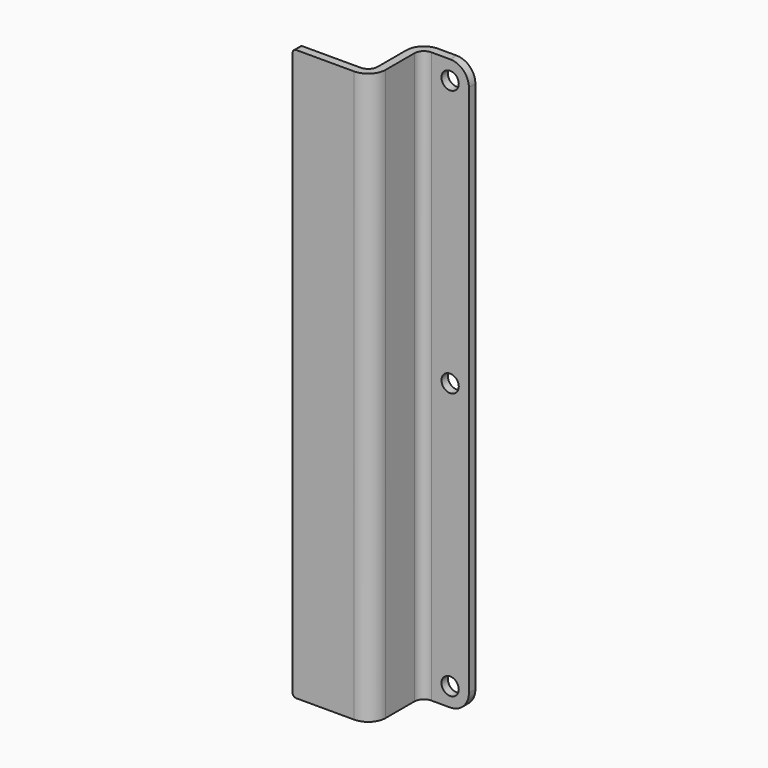
from build123d import *

# Parameters (mm, degrees)
F1_DEPTH = 120.65
F2_R     = 1.98374
F3_R     = 3.69316
F4_R     = 3.96875
F5_R     = 0.762
F6_R     = 1.8288
F7_DEPTH = 1.70942


with BuildPart() as f1:
    # F0 (on Top) → F1 (new body)
    with BuildSketch(Plane.XY):
        Polygon((0, -13.29058), (0, 0), (9.92124, 0), (9.92124, 1.70942), (-1.70942, 1.70942), (-1.70942, -11.58116), (-16.70942, -11.58116), (-16.70942, -13.29058), align=None)
    extrude(amount=F1_DEPTH)

    # F2
    f2_edges = [f1.edges().sort_by_distance(p)[0] for p in [
        (0, 0, 60.325),
        (-1.70942, -11.58116, 60.325),
    ]]
    fillet(f2_edges, radius=F2_R)

    # F3
    f3_edges = [f1.edges().sort_by_distance(p)[0] for p in [
        (0, -13.29058, 60.325),
        (-1.70942, 1.70942, 60.325),
    ]]
    fillet(f3_edges, radius=F3_R)

    # F4
    f4_edges = [f1.edges().sort_by_distance(p)[0] for p in [
        (9.92124, 0.85471, 120.65),
        (9.92124, 0.85471, 0),
    ]]
    fillet(f4_edges, radius=F4_R)

    # F5
    f5_edges = [f1.edges().sort_by_distance(p)[0] for p in [
        (-16.70942, -12.43587, 0),
        (-16.70942, -12.43587, 120.65),
    ]]
    fillet(f5_edges, radius=F5_R)

    # F6 (on face) → F7 (cut, through all)
    with BuildSketch(Plane.XZ):
        with Locations((5.95249, 116.68125)):
            Circle(F6_R)
        with Locations((5.95249, 3.96875)):
            Circle(F6_R)
        with Locations((5.95249, 60.325)):
            Circle(F6_R)
    extrude(amount=-F7_DEPTH, mode=Mode.SUBTRACT)


solid = f1.part
